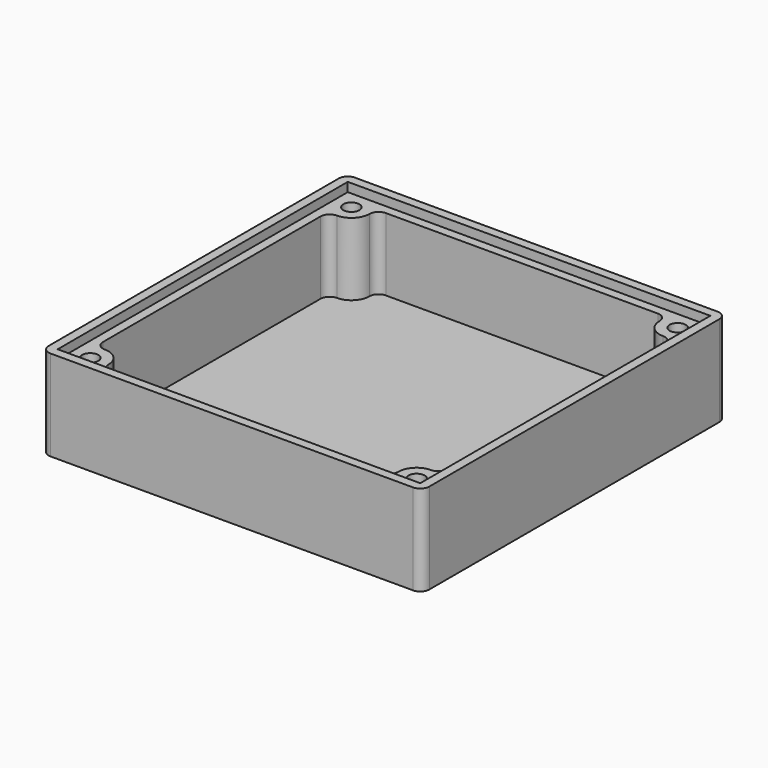
from build123d import *

# Parameters (mm, degrees)
F0_W     = 53.34
F0_H     = 53.34
F1_DEPTH = 12.7
F3_D     = 2.2606
F3_DEPTH = 11.43
F3_TIP   = 0.6791527577
F5_DEPTH = 11.43
F4_W     = 50.8
F4_H     = 50.8
F6_DEPTH = 1.27
F7_R     = 1.27


with BuildPart() as f1:
    # F0 (on Top) → F1 (new body)
    with BuildSketch(Plane.XY):
        Rectangle(F0_W, F0_H)
    extrude(amount=F1_DEPTH)

    # F3
    with Locations(Plane.XY.offset(12.7)):
        with Locations((-22.86, 22.86), (22.86, 22.86), (22.86, -22.86), (-22.86, -22.86)):
            Hole(F3_D / 2, depth=F3_DEPTH)
            with Locations((0, 0, -(F3_DEPTH + F3_TIP / 2))):  # 118° drill point
                Cone(0, F3_D / 2, F3_TIP, mode=Mode.SUBTRACT)

    # F2 (on face) → F5 (cut)
    with BuildSketch(Plane.XY.offset(12.7)):
        with BuildLine():
            Line((0, 24.13), (-19.05, 24.13))
            ThreePointArc((-19.05, 24.13), (-19.9480256121, 23.7580256121), (-20.32, 22.86))
            ThreePointArc((-20.32, 22.86), (-21.0639487758, 21.0639487758), (-22.86, 20.32))
            ThreePointArc((-22.86, 20.32), (-23.7580256121, 19.9480256121), (-24.13, 19.05))
            Line((-24.13, 19.05), (-24.13, 0))
            Line((-24.13, 0), (-24.13, -19.05))
            ThreePointArc((-24.13, -19.05), (-23.7580256121, -19.9480256121), (-22.86, -20.32))
            ThreePointArc((-22.86, -20.32), (-21.0639487758, -21.0639487758), (-20.32, -22.86))
            ThreePointArc((-20.32, -22.86), (-19.9480256121, -23.7580256121), (-19.05, -24.13))
            Line((-19.05, -24.13), (0, -24.13))
            Line((0, -24.13), (19.05, -24.13))
            ThreePointArc((19.05, -24.13), (19.9480256121, -23.7580256121), (20.32, -22.86))
            ThreePointArc((20.32, -22.86), (21.0639487758, -21.0639487758), (22.86, -20.32))
            ThreePointArc((22.86, -20.32), (23.7580256121, -19.9480256121), (24.13, -19.05))
            Line((24.13, -19.05), (24.13, 0))
            Line((24.13, 0), (24.13, 19.05))
            ThreePointArc((24.13, 19.05), (23.7580256121, 19.9480256121), (22.86, 20.32))
            ThreePointArc((22.86, 20.32), (21.0639487758, 21.0639487758), (20.32, 22.86))
            ThreePointArc((20.32, 22.86), (19.9480256121, 23.7580256121), (19.05, 24.13))
            Line((19.05, 24.13), (0, 24.13))
        make_face()
    extrude(amount=-F5_DEPTH, mode=Mode.SUBTRACT)

    # F4 (on face) → F6 (cut)
    with BuildSketch(Plane.XY.offset(12.7)):
        Rectangle(F4_W, F4_H)
    extrude(amount=-F6_DEPTH, mode=Mode.SUBTRACT)

    # F7
    f7_edges = [f1.edges().sort_by_distance(p)[0] for p in [
        (-26.67, -26.67, 6.35),
        (26.67, -26.67, 6.35),
        (26.67, 26.67, 6.35),
        (-26.67, 26.67, 6.35),
    ]]
    fillet(f7_edges, radius=F7_R)


solid = f1.part
